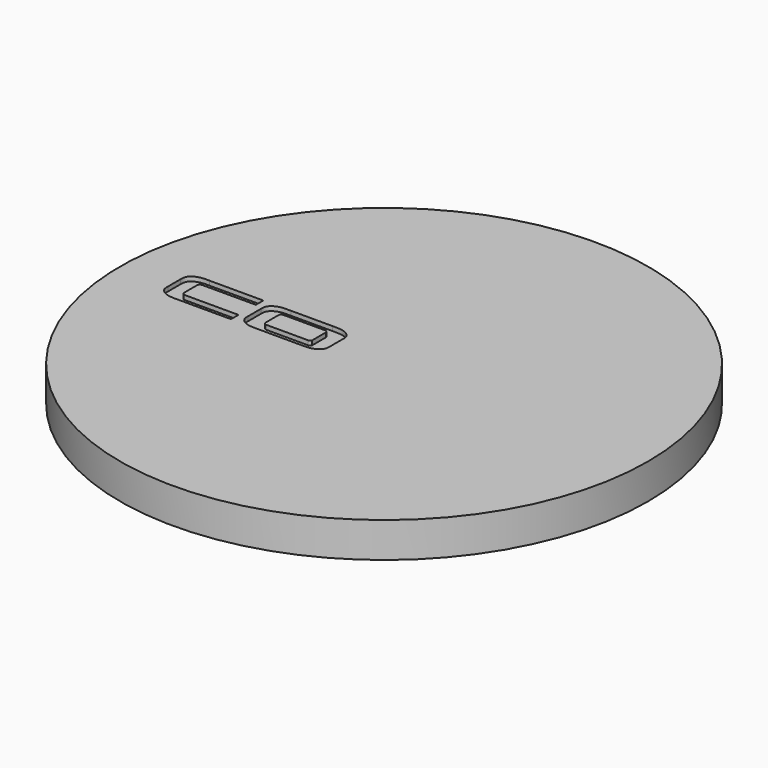
from build123d import *

# Parameters (mm, degrees)
F0_R     = 23.8125
F1_DEPTH = 3.175
F3_DEPTH = 0.396875
F5_DEPTH = 0.396875


with BuildPart() as f1:
    # F0 (on Top) → F1 (new body)
    with BuildSketch(Plane.XY):
        Circle(F0_R)
    extrude(amount=F1_DEPTH)

    # F2 (on face) → F3 (cut)
    with BuildSketch(Plane.XY.offset(3.175)):
        with BuildLine():
            Line((-12.6909213141, 1.4016369823), (-12.6909213141, 2.2456407605))
            Line((-12.6909213141, 2.2456407605), (-17.5391789526, 2.2456407605))
            add(Edge.make_bspline(
                [(-17.5391789526, 2.2456407605), (-17.6559062181, 2.2476718851), (-17.9354688339, 2.2554253264), (-18.4402822828, 2.2027182518), (-18.8679220579, 2.0222176003), (-19.1434560116, 1.7706610474), (-19.239281151, 1.5597691872), (-19.2786330359, 1.3259163628), (-19.2712876113, 1.2030485875), (-19.2709770054, 1.1491293553)],
                knots=[0, 0, 0, 0, 0.1560804266, 0.3350119598, 0.5061176479, 0.6557447948, 0.7748919756, 0.8954698873, 1, 1, 1, 1], degree=3))
            Line((-19.2709770054, 1.1491293553), (-19.2709770054, -0.3065037017))
            add(Edge.make_bspline(
                [(-17.5391789526, -1.4030151069), (-17.6559062181, -1.4050462315), (-17.9354688339, -1.4127996728), (-18.4402822828, -1.3600925982), (-18.8679220579, -1.1795919467), (-19.1434560116, -0.9280353938), (-19.239281151, -0.7171435336), (-19.2786330359, -0.4832907092), (-19.2712876113, -0.3604229339), (-19.2709770054, -0.3065037017)],
                knots=[0, 0, 0, 0, 0.1560804266, 0.3350119598, 0.5061176479, 0.6557447948, 0.7748919756, 0.8954698873, 1, 1, 1, 1], degree=3))
            Line((-17.5391789526, -1.4030151069), (-12.6909213141, -1.4030151069))
            Line((-12.6909213141, -1.4030151069), (-12.6909213141, -0.5590113287))
            Line((-12.6909213141, -0.5590113287), (-17.5391789526, -0.5590113287))
            ThreePointArc((-17.5391789526, -0.5590113287), (-17.7177288079, -0.4850535571), (-17.7916865796, -0.3065037017))
            Line((-17.7916865796, -0.3065037017), (-17.7916865796, 1.1491293553))
            ThreePointArc((-17.7916865796, 1.1491293553), (-17.7177288079, 1.3276792107), (-17.5391789526, 1.4016369823))
            Line((-17.5391789526, 1.4016369823), (-12.6909213141, 1.4016369823))
        make_face()
    extrude(amount=-F3_DEPTH, mode=Mode.SUBTRACT)

    # F4 (on face) → F5 (cut)
    with BuildSketch(Plane.XY.offset(3.175)):
        with BuildLine():
            add(Edge.make_bspline(
                [(-6.4630292664, 2.2452620324), (-6.333486021, 2.2475161627), (-5.9516659265, 2.2519011177), (-5.480629737, 2.2050980583), (-5.0429762822, 2.0234611453), (-4.7702874415, 1.7724714993), (-4.673882058, 1.5612964459), (-4.6346702869, 1.3280855562), (-4.6419952443, 1.2038344916), (-4.6423006894, 1.1508111508)],
                knots=[0, 0, 0, 0, 0.1732171564, 0.3460610241, 0.5143237171, 0.6614647441, 0.7786322429, 0.8972067004, 1, 1, 1, 1], degree=3))
            Line((-6.4630292664, 2.2452620324), (-10.2095292664, 2.2452620324))
            add(Edge.make_bspline(
                [(-10.2095292664, 2.2452620324), (-10.3390725118, 2.2475161627), (-10.7208926063, 2.2519011177), (-11.1919287958, 2.2050980583), (-11.6295822506, 2.0234611453), (-11.9022710913, 1.7724714993), (-11.9986764749, 1.5612964459), (-12.0378882459, 1.3280855562), (-12.0305632885, 1.2038344916), (-12.0302578434, 1.1508111508)],
                knots=[0, 0, 0, 0, 0.1732171564, 0.3460610241, 0.5143237171, 0.6614647441, 0.7786322429, 0.8972067004, 1, 1, 1, 1], degree=3))
            Line((-12.0302578434, 1.1508111508), (-12.0302578434, -0.3022970803))
            add(Edge.make_bspline(
                [(-10.2095292664, -1.3967479619), (-10.3390725118, -1.3990020922), (-10.7208926063, -1.4033870472), (-11.1919287958, -1.3565839878), (-11.6295822506, -1.1749470748), (-11.9022710913, -0.9239574288), (-11.9986764749, -0.7127823754), (-12.0378882459, -0.4795714857), (-12.0305632885, -0.3553204211), (-12.0302578434, -0.3022970803)],
                knots=[0, 0, 0, 0, 0.1732171564, 0.3460610241, 0.5143237171, 0.6614647441, 0.7786322429, 0.8972067004, 1, 1, 1, 1], degree=3))
            Line((-10.2095292664, -1.3967479619), (-6.4630292664, -1.3967479619))
            add(Edge.make_bspline(
                [(-6.4630292664, -1.3967479619), (-6.333486021, -1.3990020922), (-5.9516659265, -1.4033870472), (-5.480629737, -1.3565839878), (-5.0429762822, -1.1749470748), (-4.7702874415, -0.9239574288), (-4.673882058, -0.7127823754), (-4.6346702869, -0.4795714857), (-4.6419952443, -0.3553204211), (-4.6423006894, -0.3022970803)],
                knots=[0, 0, 0, 0, 0.1732171564, 0.3460610241, 0.5143237171, 0.6614647441, 0.7786322429, 0.8972067004, 1, 1, 1, 1], degree=3))
            Line((-4.6423006894, -0.3022970803), (-4.6423006894, 1.1508111508))
        make_face()
        with BuildLine():
            ThreePointArc((-10.4635292664, 1.2034273241), (-10.3732916273, 1.3519736494), (-10.2095292664, 1.4102036366))
            Line((-10.2095292664, 1.4102036366), (-6.4630292664, 1.4102036366))
            ThreePointArc((-6.4630292664, 1.4102036366), (-6.2994040409, 1.3521173307), (-6.2090292664, 1.2038620324))
            Line((-6.2090292664, 1.2038620324), (-6.2090292664, -0.3553479619))
            ThreePointArc((-6.2090292664, -0.3553479619), (-6.3117594773, -0.47474039), (-6.4628336175, -0.519289826))
            Line((-6.4628336175, -0.519289826), (-10.2095292664, -0.519289826))
            ThreePointArc((-10.2095292664, -0.519289826), (-10.3608035682, -0.4746109766), (-10.4635292664, -0.3549132536))
            Line((-10.4635292664, -0.3549132536), (-10.4635292664, 1.2034273241))
        make_face(mode=Mode.SUBTRACT)
    extrude(amount=-F5_DEPTH, mode=Mode.SUBTRACT)


solid = f1.part
